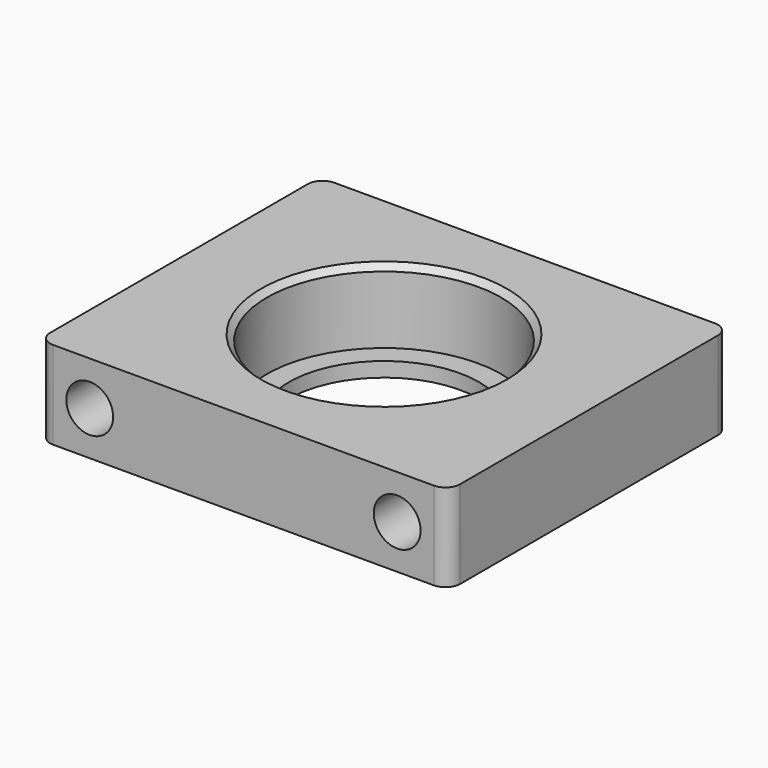
from build123d import *

# Parameters (mm, degrees)
SKETCH_W        = 28
SKETCH_H        = 24
SKETCH_R        = 8
PAD_DEPTH       = 5
SKETCH001_R     = 1.6
POCKET_DEPTH    = 24.001
SKETCH002_W     = 28
SKETCH002_H     = 24
PAD001_DEPTH    = 1
SKETCH003_R     = 6.5
POCKET001_DEPTH = 5
FILLET_R        = 1
FILLET001_R     = 1
FILLET002_R     = 1
FILLET003_R     = 1
CHAMFER_SIZE    = 0.4


with BuildPart() as part:
    # Sketch → Pad (new body)
    with BuildSketch(Plane.XY):
        Rectangle(SKETCH_W, SKETCH_H)
        Circle(SKETCH_R, mode=Mode.SUBTRACT)
    extrude(amount=PAD_DEPTH)

    # Sketch001 (on Face3 of Pad) → Pocket (cut, through all)
    with BuildSketch(Plane.XZ.offset(12)):
        with Locations((-10.5, 2)):
            Circle(SKETCH001_R)
        with Locations((10.5, 2)):
            Circle(SKETCH001_R)
    extrude(amount=-POCKET_DEPTH, mode=Mode.SUBTRACT)

    # Sketch002 (on Face3 of Pocket) → Pad001 (join)
    with BuildSketch(Plane(origin=(0, 0, 0), x_dir=(1, 0, 0), z_dir=(0, 0, -1))):
        Rectangle(SKETCH002_W, SKETCH002_H)
    extrude(amount=PAD001_DEPTH)

    # Sketch003 (on Face11 of Pad001) → Pocket001 (cut)
    with BuildSketch(Plane(origin=(0, 0, -1), x_dir=(1, 0, 0), z_dir=(0, 0, -1))):
        Circle(SKETCH003_R)
    extrude(amount=-POCKET001_DEPTH, mode=Mode.SUBTRACT)

    # Fillet
    fillet_edges = [part.edges().sort_by_distance(p)[0] for p in [
        (14, -12, -0.5),
        (14, -12, 2.5),
    ]]
    fillet(fillet_edges, radius=FILLET_R)

    # Fillet001
    fillet001_edges = [part.edges().sort_by_distance(p)[0] for p in [
        (-14, -12, -0.5),
        (-14, -12, 2.5),
    ]]
    fillet(fillet001_edges, radius=FILLET001_R)

    # Fillet002
    fillet002_edges = [part.edges().sort_by_distance(p)[0] for p in [
        (-14, 12, 2.5),
        (-14, 12, -0.5),
    ]]
    fillet(fillet002_edges, radius=FILLET002_R)

    # Fillet003
    fillet003_edges = [part.edges().sort_by_distance(p)[0] for p in [
        (14, 12, 2.5),
        (14, 12, -0.5),
    ]]
    fillet(fillet003_edges, radius=FILLET003_R)

    # Chamfer
    chamfer_edges = [part.edges().sort_by_distance(p)[0] for p in [
        (-8, 0, 5),
    ]]
    chamfer(chamfer_edges, length=CHAMFER_SIZE)


solid = part.part
